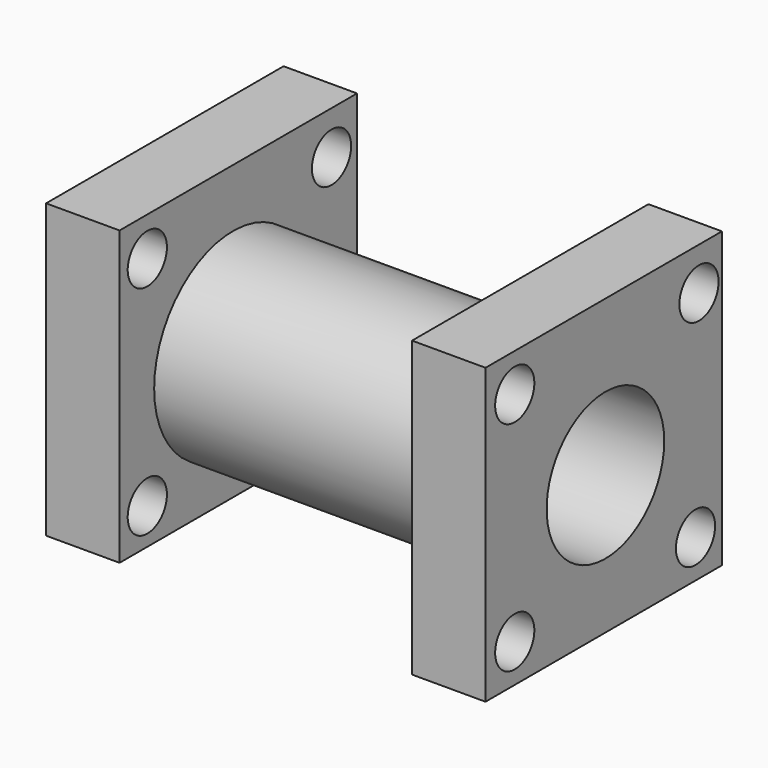
from build123d import *

# Parameters (mm, degrees)
F0_W     = 76.597254
F0_H     = 76.218059
F1_DEPTH = 19.05
F2_R     = 25.573728
F3_DEPTH = 76.2
F4_W     = 76.946799
F4_H     = 75.848795
F5_DEPTH = 19.05
F8_D     = 12.7
F9_D     = 38.1


with BuildPart() as f1:
    # F0 (on Right) → F1 (new body)
    with BuildSketch(Plane.YZ):
        with Locations((-6.7307, 10.143448)):
            Rectangle(F0_W, F0_H)
    extrude(amount=F1_DEPTH)

    # F2 (on face) → F3 (join)
    with BuildSketch(Plane(origin=(0, 0, 0), x_dir=(0, -1, 0), z_dir=(-1, 0, 0))):
        with Locations((7.766344, 7.780468)):
            Circle(F2_R)
    extrude(amount=F3_DEPTH)

    # F4 (on face) → F5 (join)
    with BuildSketch(Plane(origin=(-76.2, 0, 0), x_dir=(0, -1, 0), z_dir=(-1, 0, 0))):
        with Locations((6.074561, 10.491825)):
            Rectangle(F4_W, F4_H)
    extrude(amount=F5_DEPTH)

    # F8 (through all)
    with Locations(Plane(origin=(-95.25, 0, 0), x_dir=(0, -1, 0), z_dir=(-1, 0, 0))):
        with Locations((-23.013473, -18.076902), (-24.134498, 37.203994), (35.561476, 38.338061), (35.561476, -18.081902)):
            Hole(F8_D / 2)

    # F9 (through all)
    with Locations(Plane(origin=(-95.25, 0, 0), x_dir=(0, -1, 0), z_dir=(-1, 0, 0))):
        with Locations((6.17749, 7.946953)):
            Hole(F9_D / 2)


solid = f1.part
